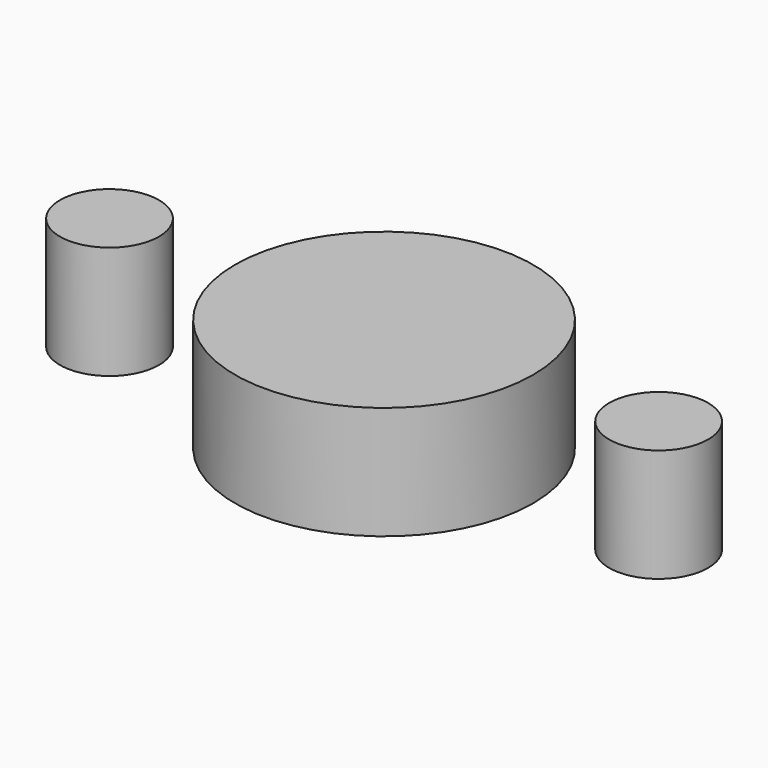
from build123d import *

# Parameters (mm, degrees)
F0_R     = 33.498619
F0_R_2   = 11.122365
F1_DEPTH = 25.4


with BuildPart() as f1:
    # F0 (on Top) → F1 (new body)
    with BuildSketch(Plane.XY):
        Circle(F0_R)
        with Locations((-61.686184, 0)):
            Circle(F0_R_2)
        with Locations((61.686184, 0)):
            Circle(F0_R_2)
    extrude(amount=F1_DEPTH)


solid = f1.part
